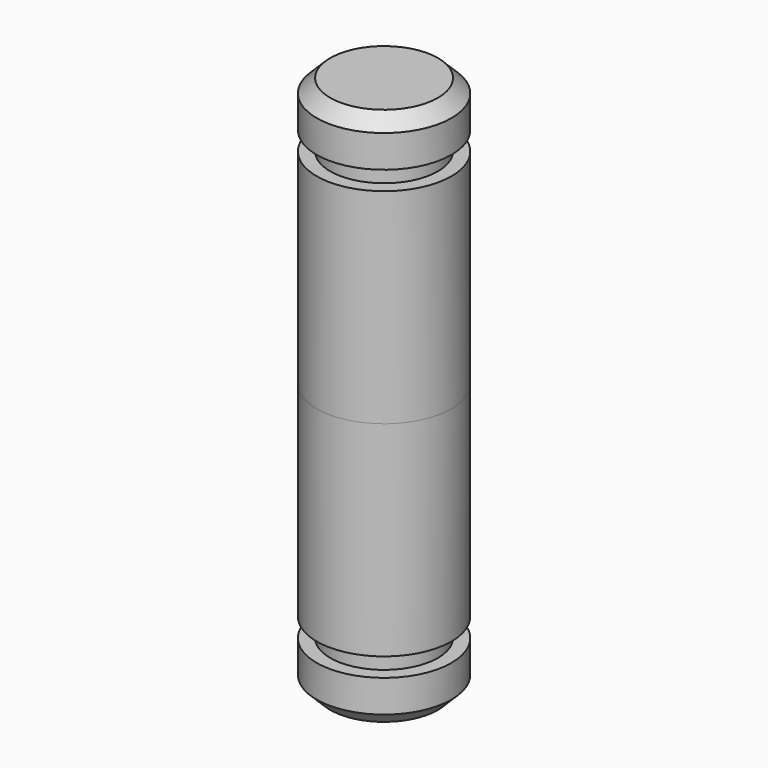
from build123d import *

# Parameters (mm, degrees)
F1_R     = 2.5
F2_DEPTH = 10
F3_R     = 2.5
F3_R_2   = 2
F4_DEPTH = 0.7
F6_SIZE  = 0.5


with BuildPart() as f2:
    # F1 (on Top) → F2 (new body)
    with BuildSketch(Plane.XY):
        Circle(F1_R)
    extrude(amount=F2_DEPTH)

    # F3 (on offset) → F4 (cut)
    with BuildSketch(Plane.XY.offset(7.6)):
        Circle(F3_R)
        Circle(F3_R_2, mode=Mode.SUBTRACT)
    extrude(amount=F4_DEPTH, mode=Mode.SUBTRACT)

    # F5: F2 across plane


with BuildPart() as f2_1:
    add(f2.part)
    add(f2.part.mirror(Plane.XY))

    # F6
    f6_edges = [f2_1.edges().sort_by_distance(p)[0] for p in [
        (-2.5, 0, 10),
        (-2.5, 0, -10),
    ]]
    chamfer(f6_edges, length=F6_SIZE)


solid = f2_1.part
